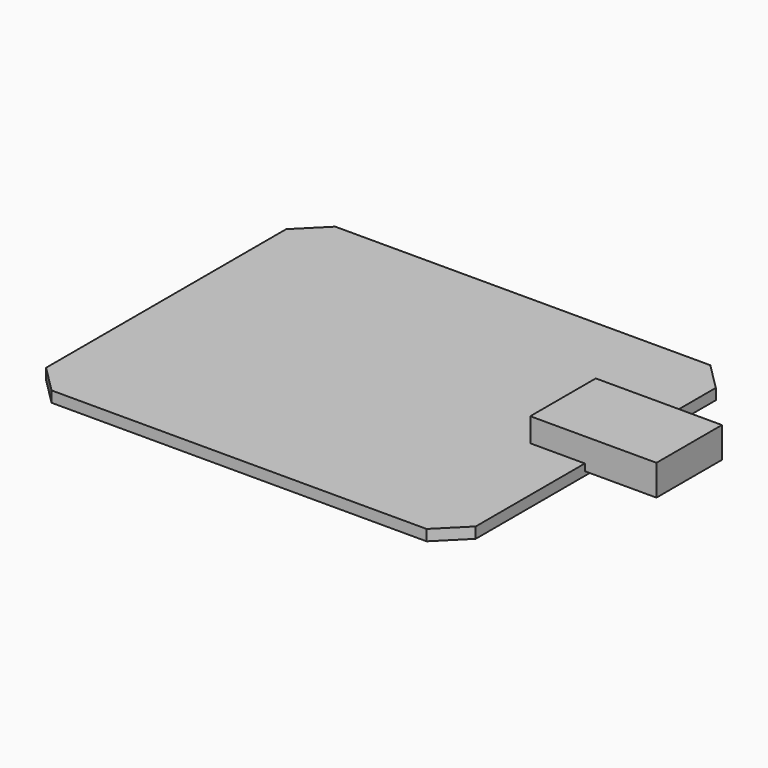
from build123d import *

# Parameters (mm, degrees)
F0_W     = 63
F0_H     = 52
F1_DEPTH = 1.6
F2_W     = 18.5
F2_H     = 12
F3_DEPTH = 3.5
F4_W     = 10.5
F4_H     = 12
F5_DEPTH = 1
F6_SIZE  = 4


with BuildPart() as f1:
    # F0 (on Top) → F1 (new body)
    with BuildSketch(Plane.XY):
        with Locations((-31.5, 26)):
            Rectangle(F0_W, F0_H)
    extrude(amount=F1_DEPTH)

    # F2 (on face) → F3 (join)
    with BuildSketch(Plane.XY.offset(1.6)):
        with Locations((1.25, 30)):
            Rectangle(F2_W, F2_H)
    extrude(amount=F3_DEPTH)

    # F4 (on face) → F5 (join)
    with BuildSketch(Plane(origin=(0, 0, 1.6), x_dir=(1, 0, 0), z_dir=(0, 0, -1))):
        with Locations((5.25, -30)):
            Rectangle(F4_W, F4_H)
    extrude(amount=F5_DEPTH)

    # F6
    f6_edges = [f1.edges().sort_by_distance(p)[0] for p in [
        (-63, 52, 0.8),
        (0, 52, 0.8),
        (-63, 0, 0.8),
        (0, 0, 0.8),
    ]]
    chamfer(f6_edges, length=F6_SIZE)


solid = f1.part
